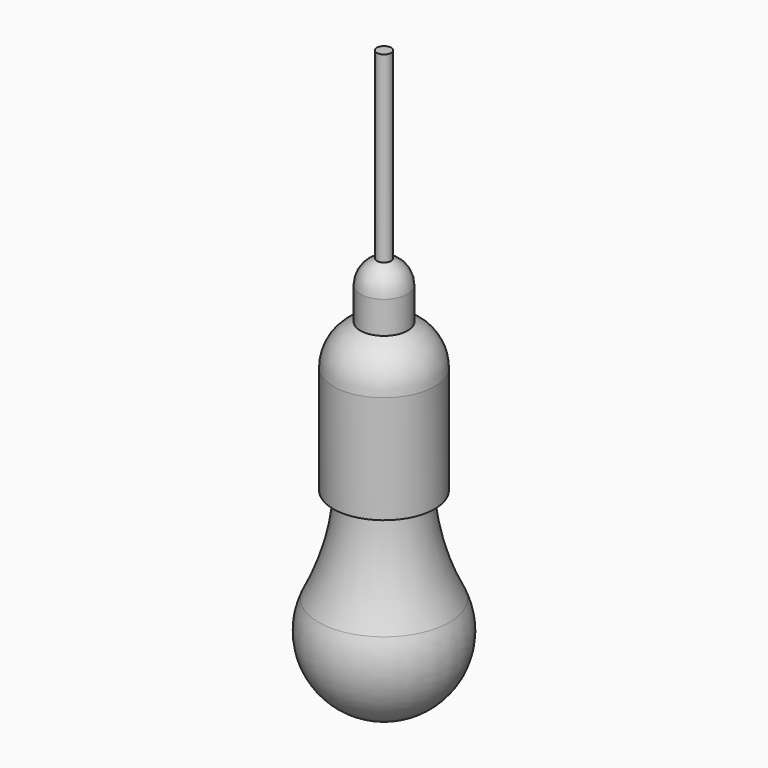
from build123d import *

# Parameters (mm, degrees)
SKETCH_R          = 7.5
SKETCH001_R       = 5.5
CYLINDER_R        = 7.5
CYLINDER_DEPTH    = 2
CYLINDER001_R     = 3
CYLINDER001_DEPTH = 100


with BuildPart() as body:
    # Sketch → AdditiveLoft section 0
    with BuildSketch(Plane.XY):
        Circle(SKETCH_R)
    # Sketch001 → AdditiveLoft section 1
    with BuildSketch(Plane.XY.offset(19)):
        Circle(SKETCH001_R)
    loft()


with BuildPart() as cylinder:
    # Cylinder → Cylinder (new body)
    with BuildSketch(Plane.XY.offset(-2)):
        Circle(CYLINDER_R)
    extrude(amount=CYLINDER_DEPTH)


with BuildPart() as body001:
    # Sketch002 → Revolution (revolve)
    with BuildSketch(Plane.XZ):
        with BuildLine():
            Line((-18.85, -61), (-18.85, -17))
            ThreePointArc((-7.5, -2), (-15.692734, -7.594915), (-18.85, -17))
            Line((-7.5, -2), (0, -2))
            Line((0, -2), (0, -61))
            Line((0, -61), (-18.85, -61))
        make_face()
    revolve(axis=Axis((0, 0, 0), (0, 0, 1)))


with BuildPart() as body002:
    # Sketch003 → Revolution001 (revolve)
    with BuildSketch(Plane.XZ):
        with BuildLine():
            Line((0, -61), (0, -103))
            Line((0, -103), (-27.5, -103))
            ThreePointArc((-27.5, -103), (-19.693123, -82.604182), (-16.5, -61))
            Line((-16.5, -61), (0, -61))
        make_face()
    revolve(axis=Axis((0, 0, 0), (0, 0, 1)))


with BuildPart() as body003:
    # Sketch004 → Revolution002 (revolve)
    with BuildSketch(Plane.XZ):
        with BuildLine():
            Line((0, -103), (-27.495454, -103))
            ThreePointArc((-27.495454, -103), (-25.099801, -131.431677), (0, -145))
            Line((0, -145), (0, -103))
        make_face()
    revolve(axis=Axis((0, 0, 0), (0, 0, 1)))


with BuildPart() as cylinder001:
    # Cylinder001 → Cylinder001 (new body)
    with BuildSketch(Plane.XY):
        Circle(CYLINDER001_R)
    extrude(amount=CYLINDER001_DEPTH)


with BuildPart() as body004:
    # Sketch005 → Revolution003 (revolve)
    with BuildSketch(Plane.XZ):
        with BuildLine():
            Line((-8, 12.93975), (-8, -2))
            ThreePointArc((-8, -2), (-16.212353, -7.955845), (-19.35, -17.603125))
            Line((-19.35, -17.603125), (-19.35, -63))
            Line((-19.35, -63), (-21.35, -63))
            Line((-21.35, -17.603125), (-21.35, -63))
            ThreePointArc((-10, -0.607316), (-18.251634, -7.384514), (-21.35, -17.603125))
            Line((-10, -0.607316), (-10, 12.93975))
            ThreePointArc((-3, 22.909705), (-8.075252, 19.030727), (-10, 12.93975))
            Line((-3, 20.75), (-3, 22.909705))
            ThreePointArc((-3, 20.75), (-6.642928, 17.57656), (-8, 12.93975))
        make_face()
    revolve(axis=Axis((0, 0, 0), (0, 0, 1)))


solid = Compound([body.part, cylinder.part, body001.part, body002.part, body003.part, cylinder001.part, body004.part])
